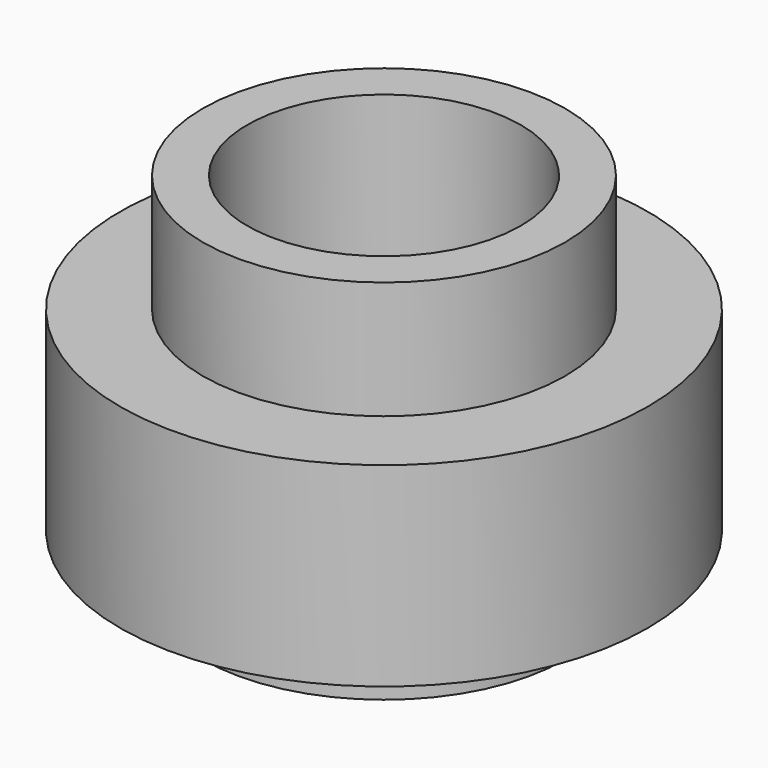
from build123d import *

# Parameters (mm, degrees)
F0_R          = 24.511
F0_R_2        = 16.8275
F0_R_3        = 12.7
F1_DEPTH      = 18.0975
F2_DEPTH      = 29.0322
F2_DEPTH_BACK = 5.08
F3_DEPTH      = 29.0332


with BuildPart() as f1:
    # F0 (on Top) → F1 (new body)
    with BuildSketch(Plane.XY):
        Circle(F0_R)
        Circle(F0_R_2, mode=Mode.SUBTRACT)
        Circle(F0_R_2)
        Circle(F0_R_3, mode=Mode.SUBTRACT)
        Circle(F0_R_3)
    extrude(amount=F1_DEPTH)

    # F0 (on Top) → F2 (join, two sides)
    with BuildSketch(Plane.XY) as f2_sk:
        Circle(F0_R_2)
        Circle(F0_R_3, mode=Mode.SUBTRACT)
    extrude(amount=F2_DEPTH)
    extrude(f2_sk.sketch, amount=-F2_DEPTH_BACK)

    # F3 (cut, through all): a face of the model
    f3_faces = [f1.faces().sort_by_distance(p)[0] for p in [
        (0, 0, 0),
    ]]
    extrude(f3_faces, amount=-F3_DEPTH, mode=Mode.SUBTRACT)


solid = f1.part
